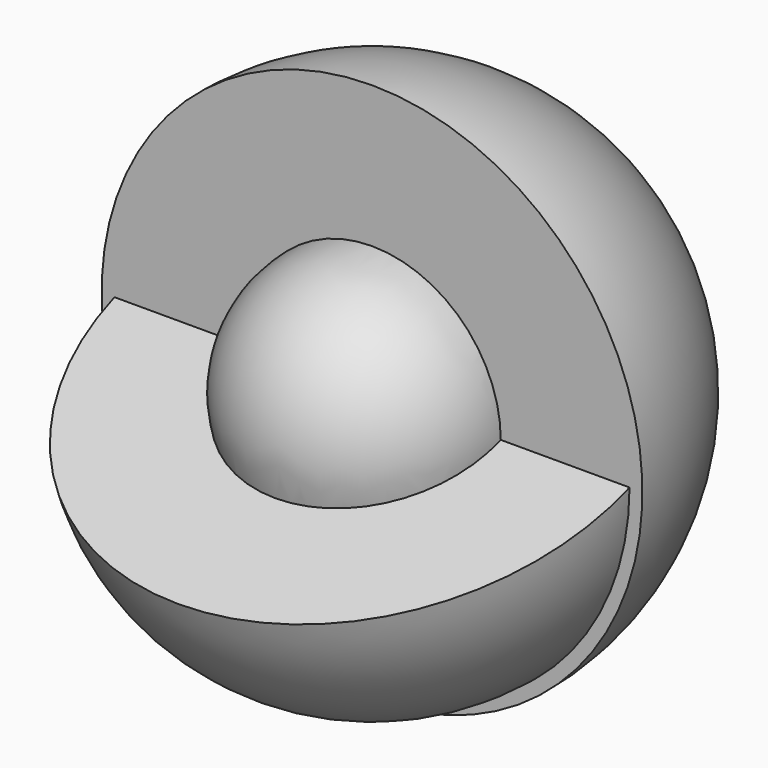
from build123d import *

# Parameters (mm, degrees)
F1_ANGLE = -180
F3_ANGLE = 250


with BuildPart() as f1:
    # F0 (on Front) → F1 (revolve)
    with BuildSketch(Plane.XZ):
        with BuildLine():
            Line((0, -20), (0, -21))
            ThreePointArc((0, -21), (21, 0), (0, 21))
            Line((0, 21), (0, 20))
            ThreePointArc((0, 20), (20, 0), (0, -20))
        make_face()
    revolve(axis=Axis((0, 0, 0), (0, 0, -1)), revolution_arc=F1_ANGLE)

    # F2 (on Front) → F3 (revolve)
    with BuildSketch(Plane.XZ):
        with BuildLine():
            Line((10, 0), (20, 0))
            ThreePointArc((20, 0), (0, 20), (-20, 0))
            Line((-20, 0), (-10, 0))
            ThreePointArc((-10, 0), (0, 10), (10, 0))
        make_face()
    revolve(axis=Axis((0, 0, 0), (-1, 0, 0)), revolution_arc=F3_ANGLE)

    # F4 (on Front) → F5 (revolve)
    with BuildSketch(Plane.XZ):
        with BuildLine():
            Line((10, 0), (-10, 0))
            ThreePointArc((-10, 0), (0, -10), (10, 0))
        make_face()
    revolve(axis=Axis((0, 0, 0), (1, 0, 0)))


solid = f1.part
